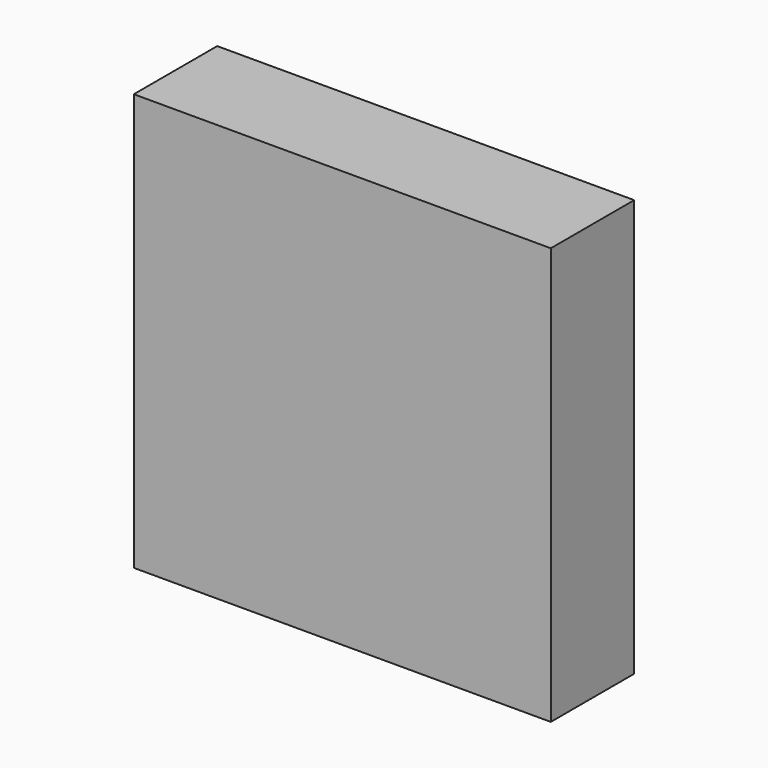
from build123d import *

# Parameters (mm, degrees)
BOX076_W               = 12
BOX076_H               = 3
BOX076_DEPTH           = 12
CYLINDER042_R          = 3.5
CYLINDER042_DEPTH      = 1
CYLINDER042_ROLL_ANGLE = 90


with BuildPart() as cube075:
    # Box076 → Box076 (new body)
    with BuildSketch(Plane(origin=(0, 71, 0), x_dir=(1, 0, 0), z_dir=(0, 0, 1))):
        with Locations((6, 1.5)):
            Rectangle(BOX076_W, BOX076_H)
    extrude(amount=BOX076_DEPTH)


with BuildPart() as obj1:
    # Cylinder042 → Cylinder042 (new body)
    with BuildSketch(Plane.XY):
        Circle(CYLINDER042_R)
    extrude(amount=CYLINDER042_DEPTH)


with BuildPart() as obj1_1:
    # Cylinder042 roll: moved
    add(obj1.part.rotate(Axis((0, 0, 0), (1, 0, 0)), CYLINDER042_ROLL_ANGLE))


with BuildPart() as obj1_2:
    # Cylinder042 placement: moved
    add(obj1_1.part.moved(Location((6, 75, 6))))

    # Fusion024: union Cube075
    add(cube075.part)


with BuildPart() as obj1_3:
    # Fusion024 placement: moved
    add(obj1_2.part.moved(Location((44, -12.5, 47))))


solid = obj1_3.part
